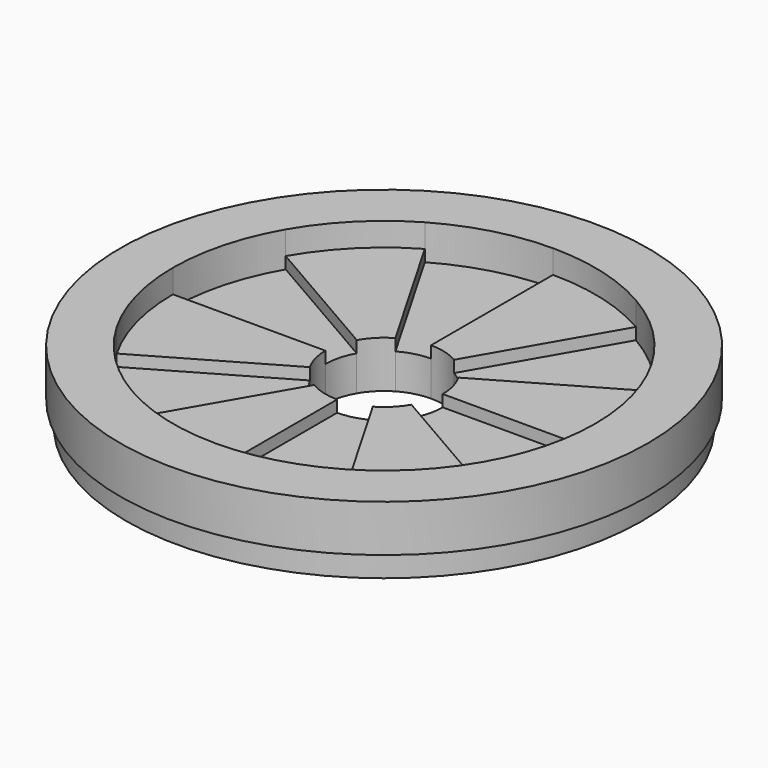
from build123d import *

# Parameters (mm, degrees)
F0_R     = 11.25
F1_DEPTH = 3
F2_DEPTH = 2
F3_DEPTH = 1.5
F4_R     = 11.25
F4_R_2   = 11
F5_DEPTH = 1


with BuildPart() as f1:
    # F0 (on Top) → F1 (new body)
    with BuildSketch(Plane.XY):
        Circle(F0_R)
        with BuildLine():
            ThreePointArc((7.7942286341, 4.5), (8.6933324366, 2.3293714059), (9, 0))
            ThreePointArc((9, 0), (8.6933324366, -2.3293714059), (7.7942286341, -4.5))
            ThreePointArc((7.7942286341, -4.5), (6.3639610307, -6.3639610307), (4.5, -7.7942286341))
            ThreePointArc((4.5, -7.7942286341), (2.3293714059, -8.6933324366), (0, -9))
            ThreePointArc((0, -9), (-2.3293714059, -8.6933324366), (-4.5, -7.7942286341))
            ThreePointArc((-4.5, -7.7942286341), (-6.3639610307, -6.3639610307), (-7.7942286341, -4.5))
            ThreePointArc((-7.7942286341, -4.5), (-8.6933324366, -2.3293714059), (-9, 0))
            ThreePointArc((-9, 0), (-8.6933324366, 2.3293714059), (-7.7942286341, 4.5))
            ThreePointArc((-7.7942286341, 4.5), (-6.3639610307, 6.3639610307), (-4.5, 7.7942286341))
            ThreePointArc((-4.5, 7.7942286341), (-2.3293714059, 8.6933324366), (0, 9))
            ThreePointArc((0, 9), (2.3293714059, 8.6933324366), (4.5, 7.7942286341))
            ThreePointArc((4.5, 7.7942286341), (6.3639610307, 6.3639610307), (7.7942286341, 4.5))
        make_face(mode=Mode.SUBTRACT)
    extrude(amount=F1_DEPTH)

    # F0 (on Top) → F2 (join)
    with BuildSketch(Plane.XY):
        with BuildLine():
            Line((-7.7942286341, 4.5), (-2.1650635095, 1.25))
            ThreePointArc((-2.1650635095, 1.25), (-1.767766953, 1.767766953), (-1.25, 2.1650635095))
            Line((-1.25, 2.1650635095), (-4.5, 7.7942286341))
            ThreePointArc((-4.5, 7.7942286341), (-6.3639610307, 6.3639610307), (-7.7942286341, 4.5))
        make_face()
        with BuildLine():
            Line((1.25, 2.1650635095), (4.5, 7.7942286341))
            ThreePointArc((4.5, 7.7942286341), (2.3293714059, 8.6933324366), (0, 9))
            Line((0, 9), (0, 2.5))
            ThreePointArc((0, 2.5), (0.6470476128, 2.4148145657), (1.25, 2.1650635095))
        make_face()
        with BuildLine():
            Line((2.5, 0), (9, 0))
            ThreePointArc((9, 0), (8.6933324366, 2.3293714059), (7.7942286341, 4.5))
            Line((7.7942286341, 4.5), (2.1650635095, 1.25))
            ThreePointArc((2.1650635095, 1.25), (2.4148145657, 0.6470476128), (2.5, 0))
        make_face()
        with BuildLine():
            ThreePointArc((4.5, -7.7942286341), (6.3639610307, -6.3639610307), (7.7942286341, -4.5))
            Line((7.7942286341, -4.5), (2.1650635095, -1.25))
            ThreePointArc((2.1650635095, -1.25), (1.767766953, -1.767766953), (1.25, -2.1650635095))
            Line((1.25, -2.1650635095), (4.5, -7.7942286341))
        make_face()
        with BuildLine():
            ThreePointArc((-4.5, -7.7942286341), (-2.3293714059, -8.6933324366), (0, -9))
            Line((0, -9), (0, -2.5))
            ThreePointArc((0, -2.5), (-0.6470476128, -2.4148145657), (-1.25, -2.1650635095))
            Line((-1.25, -2.1650635095), (-4.5, -7.7942286341))
        make_face()
        with BuildLine():
            ThreePointArc((-2.1650635095, -1.25), (-2.4148145657, -0.6470476128), (-2.5, 0))
            Line((-2.5, 0), (-9, 0))
            ThreePointArc((-9, 0), (-8.6933324366, -2.3293714059), (-7.7942286341, -4.5))
            Line((-7.7942286341, -4.5), (-2.1650635095, -1.25))
        make_face()
    extrude(amount=F2_DEPTH)

    # F0 (on Top) → F3 (join)
    with BuildSketch(Plane.XY):
        with BuildLine():
            Line((-9, 0), (-2.5, 0))
            ThreePointArc((-2.5, 0), (-2.4148145657, 0.6470476128), (-2.1650635095, 1.25))
            Line((-2.1650635095, 1.25), (-7.7942286341, 4.5))
            ThreePointArc((-7.7942286341, 4.5), (-8.6933324366, 2.3293714059), (-9, 0))
        make_face()
        with BuildLine():
            Line((0, 2.5), (0, 9))
            ThreePointArc((0, 9), (-2.3293714059, 8.6933324366), (-4.5, 7.7942286341))
            Line((-4.5, 7.7942286341), (-1.25, 2.1650635095))
            ThreePointArc((-1.25, 2.1650635095), (-0.6470476128, 2.4148145657), (0, 2.5))
        make_face()
        with BuildLine():
            Line((2.1650635095, 1.25), (7.7942286341, 4.5))
            ThreePointArc((7.7942286341, 4.5), (6.3639610307, 6.3639610307), (4.5, 7.7942286341))
            Line((4.5, 7.7942286341), (1.25, 2.1650635095))
            ThreePointArc((1.25, 2.1650635095), (1.767766953, 1.767766953), (2.1650635095, 1.25))
        make_face()
        with BuildLine():
            ThreePointArc((7.7942286341, -4.5), (8.6933324366, -2.3293714059), (9, 0))
            Line((9, 0), (2.5, 0))
            ThreePointArc((2.5, 0), (2.4148145657, -0.6470476128), (2.1650635095, -1.25))
            Line((2.1650635095, -1.25), (7.7942286341, -4.5))
        make_face()
        with BuildLine():
            ThreePointArc((0, -9), (2.3293714059, -8.6933324366), (4.5, -7.7942286341))
            Line((4.5, -7.7942286341), (1.25, -2.1650635095))
            ThreePointArc((1.25, -2.1650635095), (0.6470476128, -2.4148145657), (0, -2.5))
            Line((0, -2.5), (0, -9))
        make_face()
        with BuildLine():
            Line((-4.5, -7.7942286341), (-1.25, -2.1650635095))
            ThreePointArc((-1.25, -2.1650635095), (-1.767766953, -1.767766953), (-2.1650635095, -1.25))
            Line((-2.1650635095, -1.25), (-7.7942286341, -4.5))
            ThreePointArc((-7.7942286341, -4.5), (-6.3639610307, -6.3639610307), (-4.5, -7.7942286341))
        make_face()
    extrude(amount=F3_DEPTH)

    # F4 (on face) → F5 (cut)
    with BuildSketch(Plane(origin=(0, 0, 0), x_dir=(1, 0, 0), z_dir=(0, 0, -1))):
        Circle(F4_R)
        Circle(F4_R_2, mode=Mode.SUBTRACT)
    extrude(amount=-F5_DEPTH, mode=Mode.SUBTRACT)


solid = f1.part
